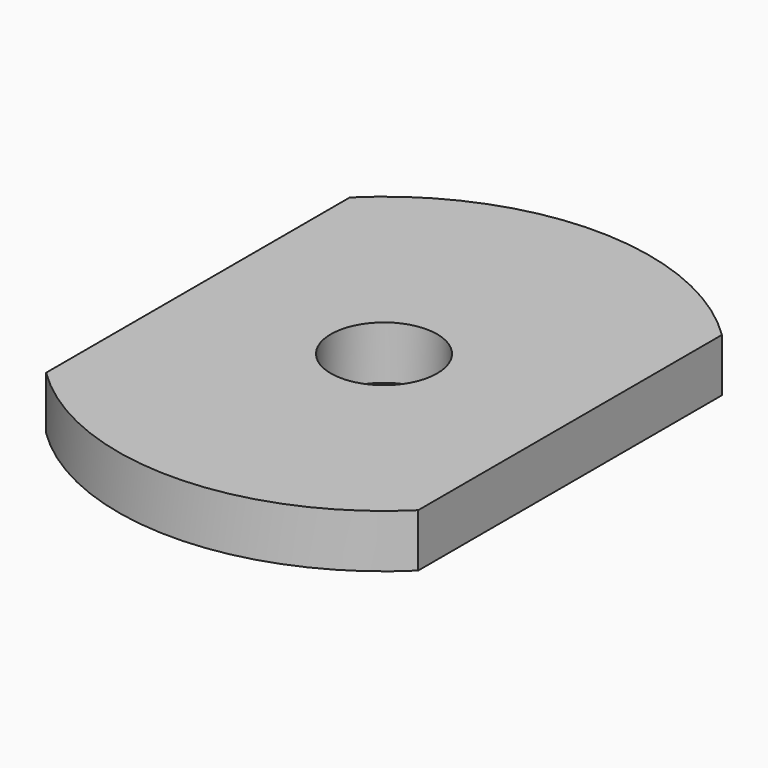
from build123d import *

# Parameters (mm, degrees)
F0_R     = 63.5
F0_R_2   = 12.7
F1_DEPTH = 12.7
F3_W     = 54.029742
F3_H     = 140.439012
F3_W_2   = 66.675002
F3_H_2   = 141.013797
F4_DEPTH = 25.4


with BuildPart() as f1:
    # F0 (on Top) → F1 (new body)
    with BuildSketch(Plane.XY):
        Circle(F0_R)
        Circle(F0_R_2, mode=Mode.SUBTRACT)
    extrude(amount=F1_DEPTH)

    # F3 (on face) → F4 (cut)
    with BuildSketch(Plane.XY.offset(12.7)):
        with Locations((-71.464871, -3.700142)):
            Rectangle(F3_W, F3_H)
        with Locations((77.787501, -3.412749)):
            Rectangle(F3_W_2, F3_H_2)
    extrude(amount=-F4_DEPTH, mode=Mode.SUBTRACT)


solid = f1.part
